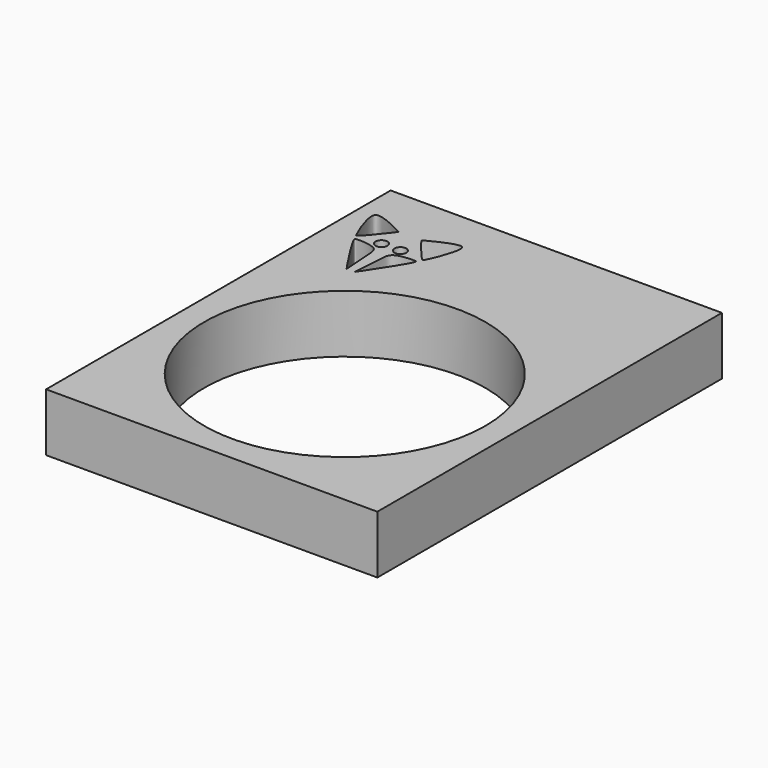
from build123d import *

# Parameters (mm, degrees)
F0_W     = 20
F0_H     = 26
F0_R     = 8.4899399674
F1_DEPTH = 3.5
F2_W     = 18.4
F2_H     = 2.3
F3_DEPTH = 1.6
F5_DEPTH = 25
F4_R     = 0.3556477971
F6_DEPTH = 25


with BuildPart() as f1:
    # F0 (on Top) → F1 (new body)
    with BuildSketch(Plane.XY):
        with Locations((-0.0155935995, -0.1276956055)):
            Rectangle(F0_W, F0_H)
        with Locations((0, -3.1063724309)):
            Circle(F0_R, mode=Mode.SUBTRACT)
    extrude(amount=F1_DEPTH)

    # F2 (on face) → F3 (cut)
    with BuildSketch(Plane(origin=(0, 12.8723043945, 0), x_dir=(-1, 0, 0), z_dir=(0, 1, 0))):
        with Locations((0.0155935995, 1.75)):
            Rectangle(F2_W, F2_H)
    extrude(amount=-F3_DEPTH, mode=Mode.SUBTRACT)

    # F4 (on face) → F5 (cut)
    with BuildSketch(Plane.XY.offset(3.5)):
        with BuildLine():
            add(Edge.make_bspline(
                [(-9.0663773008, 10.3146480396), (-9.121200224, 9.8733656583), (-8.4869876314, 8.3092455014), (-8.3243699239, 8.2013479436), (-7.0769728533, 9.7664160707), (-7.0948353704, 9.8396808871), (-8.5926250451, 10.5897607858), (-9.0400634166, 10.5264545761), (-9.0663773008, 10.3146480396)],
                knots=[0, 0, 0, 0, 0.2678849283, 0.3314340935, 0.5888522786, 0.6336495493, 0.8714207019, 1, 1, 1, 1], degree=3))
        make_face()
        with BuildLine():
            add(Edge.make_bspline(
                [(-3.7130243145, 10.3146480396), (-3.6582013913, 9.8733656583), (-4.2924139838, 8.3092455014), (-4.4550316914, 8.2013479436), (-5.702428762, 9.7664160707), (-5.6845662449, 9.8396808871), (-4.1867765702, 10.5897607858), (-3.7393381987, 10.5264545761), (-3.7130243145, 10.3146480396)],
                knots=[0, 0, 0, 0, 0.2678849283, 0.3314340935, 0.5888522786, 0.6336495493, 0.8714207019, 1, 1, 1, 1], degree=3))
        make_face()
        with BuildLine():
            add(Edge.make_bspline(
                [(-8.219383657, 7.8592514619), (-8.2525839404, 7.9492682682), (-8.171310555, 8.0205088545), (-6.7825406816, 7.9452571653), (-6.7645340583, 7.1036314333), (-6.6449242214, 5.3599632435), (-6.6074783523, 5.2564234712), (-8.0608860837, 7.4295128014), (-8.219383657, 7.8592514619)],
                knots=[0, 0, 0, 0, 0.0662829898, 0.2616302922, 0.4303172751, 0.667801053, 0.6835661645, 1, 1, 1, 1], degree=3))
        make_face()
        with BuildLine():
            add(Edge.make_bspline(
                [(-4.5600179583, 7.8592514619), (-4.5268176748, 7.9492682682), (-4.6080910602, 8.0205088545), (-5.9968609337, 7.9452571653), (-6.0148675569, 7.1036314333), (-6.1344773939, 5.3599632435), (-6.171923263, 5.2564234712), (-4.7185155316, 7.4295128014), (-4.5600179583, 7.8592514619)],
                knots=[0, 0, 0, 0, 0.0662829898, 0.2616302922, 0.4303172751, 0.667801053, 0.6835661645, 1, 1, 1, 1], degree=3))
        make_face()
    extrude(amount=-F5_DEPTH, mode=Mode.SUBTRACT)

    # F4 (on face) → F6 (cut)
    with BuildSketch(Plane.XY.offset(3.5)):
        with Locations((-6.9590290077, 8.3633698523)):
            Circle(F4_R)
        with Locations((-5.8203726076, 8.3633698523)):
            Circle(F4_R)
    extrude(amount=-F6_DEPTH, mode=Mode.SUBTRACT)


solid = f1.part
